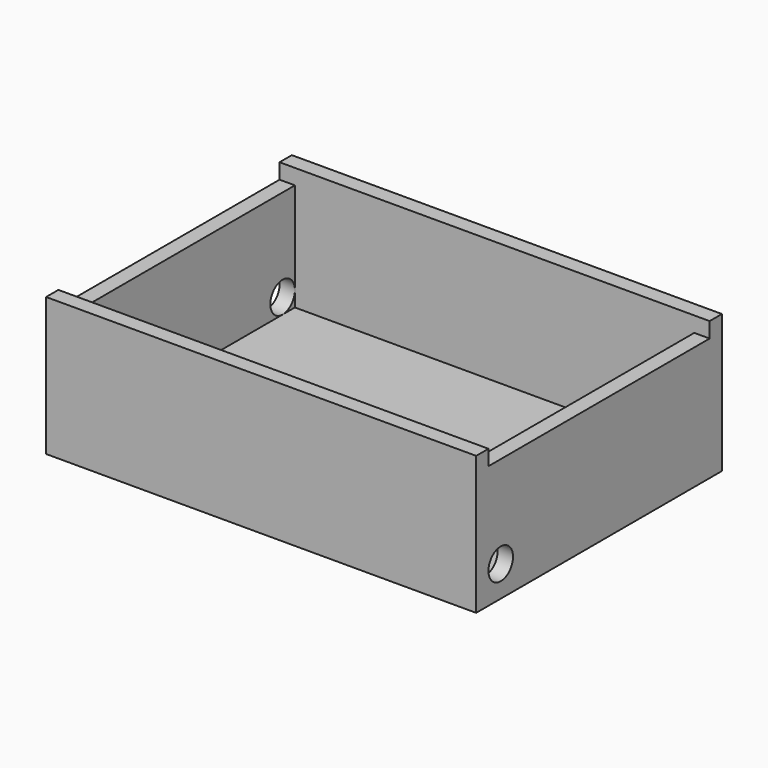
from build123d import *

# Parameters (mm, degrees)
F0_W           = 140
F0_H           = 100
F1_DEPTH       = 5
F2_W           = 140
F2_H           = 100
F2_W_2         = 130
F2_H_2         = 90
F3_DEPTH       = 40
F5_D           = 3.3
F5_CBORE_D     = 6.5
F5_CBORE_DEPTH = 3
F7_D           = 10
F7_DEPTH       = 12
F7_TIP         = 3.0043030951
F9_D           = 10
F9_DEPTH       = 12
F9_TIP         = 3.0043030951
F10_W          = 5
F10_H          = 90
F11_DEPTH      = 5


with BuildPart() as f1:
    # F0 (on Top) → F1 (new body)
    with BuildSketch(Plane.XY):
        Rectangle(F0_W, F0_H)
    extrude(amount=F1_DEPTH)

    # F2 (on face) → F3 (join)
    with BuildSketch(Plane.XY.offset(5)):
        Rectangle(F2_W, F2_H)
        Rectangle(F2_W_2, F2_H_2, mode=Mode.SUBTRACT)
    extrude(amount=F3_DEPTH)

    # F5 (through all)
    with Locations(Plane(origin=(0, 0, 0), x_dir=(1, 0, 0), z_dir=(0, 0, -1))):
        with Locations((40.5, -4), (-14.5, -4)):
            CounterBoreHole(F5_D / 2, F5_CBORE_D / 2, F5_CBORE_DEPTH)

    # F7
    with Locations(Plane.YZ.offset(70)):
        with Locations((-40, 10)):
            Hole(F7_D / 2, depth=F7_DEPTH)
            with Locations((0, 0, -(F7_DEPTH + F7_TIP / 2))):  # 118° drill point
                Cone(0, F7_D / 2, F7_TIP, mode=Mode.SUBTRACT)

    # F9
    with Locations(Plane(origin=(-70, 0, 0), x_dir=(0, -1, 0), z_dir=(-1, 0, 0))):
        with Locations((-40, 10)):
            Hole(F9_D / 2, depth=F9_DEPTH)
            with Locations((0, 0, -(F9_DEPTH + F9_TIP / 2))):  # 118° drill point
                Cone(0, F9_D / 2, F9_TIP, mode=Mode.SUBTRACT)

    # F10 (on face) → F11 (cut)
    with BuildSketch(Plane.XY.offset(45)):
        with Locations((-67.5, 0)):
            Rectangle(F10_W, F10_H)
        with Locations((67.5, 0)):
            Rectangle(F10_W, F10_H)
    extrude(amount=-F11_DEPTH, mode=Mode.SUBTRACT)


solid = f1.part
